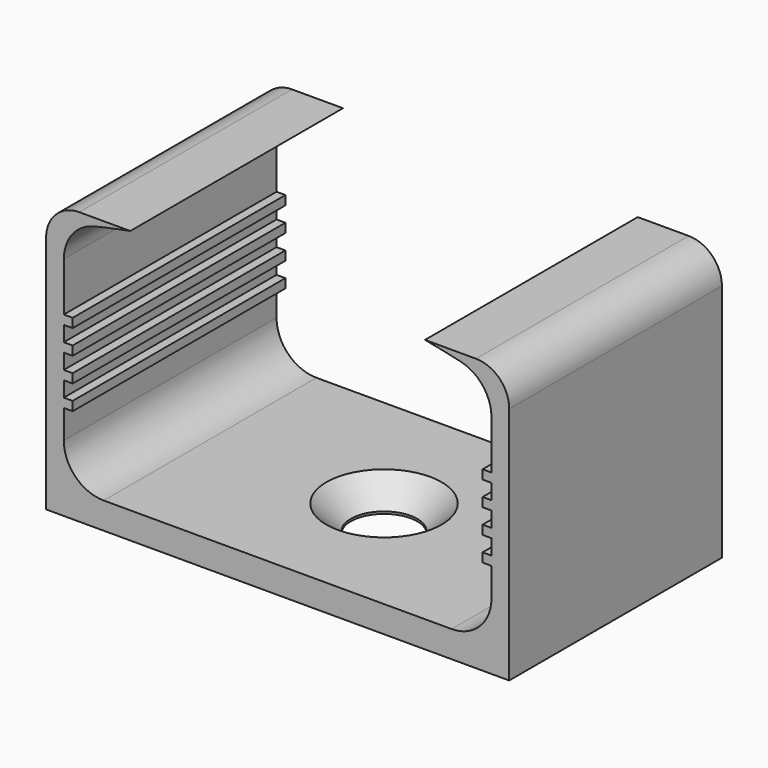
from build123d import *

# Parameters (mm, degrees)
F0_W           = 0.4
F0_H           = 0.41
F1_DEPTH       = 6
F1_DEPTH_BACK  = 6
F3_D           = 3
F3_CSINK_D     = 5.2
F3_CSINK_ANGLE = 90


with BuildPart() as f1:
    # F0 (on Front) → F1 (new body, two sides)
    with BuildSketch(Plane.XZ) as f1_sk:
        with BuildLine():
            Line((7.85, -5.2), (-7.85, -5.2))
            ThreePointArc((-7.85, -5.2), (-9.1227922061, -4.6727922061), (-9.65, -3.4))
            Line((-9.65, -3.4), (-9.65, -2.1072993897))
            Line((-9.65, -2.1072993897), (-10.05, -2.1072993897))
            Line((-10.05, -2.1072993897), (-10.05, -1.6972993897))
            Line((-10.05, -1.6972993897), (-9.65, -1.6972993897))
            Line((-9.65, -1.6972993897), (-9.65, -1.0072993897))
            Line((-9.65, -1.0072993897), (-10.05, -1.0072993897))
            Line((-10.05, -1.0072993897), (-10.05, -0.5972993897))
            Line((-10.05, -0.5972993897), (-9.65, -0.5972993897))
            Line((-9.65, -0.5972993897), (-9.65, 0.0927006103))
            Line((-9.65, 0.0927006103), (-10.05, 0.0927006103))
            Line((-10.05, 0.0927006103), (-10.05, 0.5027006103))
            Line((-10.05, 0.5027006103), (-9.65, 0.5027006103))
            Line((-9.65, 0.5027006103), (-9.65, 1.1927006103))
            Line((-9.65, 1.1927006103), (-10.05, 1.1927006103))
            Line((-10.05, 1.1927006103), (-10.05, 1.6027006103))
            Line((-10.05, 1.6027006103), (-9.65, 1.6027006103))
            Line((-9.65, 1.6027006103), (-9.65, 3.8042472626))
            ThreePointArc((-9.65, 3.8042472626), (-9.2612806979, 4.9215148186), (-8.2630146759, 5.5562229695))
            ThreePointArc((-8.2630146759, 5.5562229695), (-7.4584618673, 5.736194267), (-6.65, 5.8977006103))
            Line((-6.65, 5.8977006103), (-8.95, 5.8977006103))
            ThreePointArc((-8.95, 5.8977006103), (-10.0106601718, 5.4583607821), (-10.45, 4.3977006103))
            Line((-10.45, 4.3977006103), (-10.45, -6.4))
            Line((-10.45, -6.4), (10.45, -6.4))
            Line((10.45, -6.4), (10.45, 4.3977006103))
            ThreePointArc((10.45, 4.3977006103), (10.0106601718, 5.4583607821), (8.95, 5.8977006103))
            Line((8.95, 5.8977006103), (6.65, 5.8977006103))
            ThreePointArc((6.65, 5.8977006103), (7.4584618673, 5.736194267), (8.2630146759, 5.5562229695))
            ThreePointArc((8.2630146759, 5.5562229695), (9.2612806979, 4.9215148186), (9.65, 3.8042472626))
            Line((9.65, 3.8042472626), (9.65, 1.6027006103))
            Line((9.65, 1.6027006103), (10.05, 1.6027006103))
            Line((10.05, 1.6027006103), (10.05, 1.1927006103))
            Line((10.05, 1.1927006103), (9.65, 1.1927006103))
            Line((9.65, 1.1927006103), (9.65, 0.5027006103))
            Line((9.65, 0.5027006103), (10.05, 0.5027006103))
            Line((10.05, 0.5027006103), (10.05, 0.0927006103))
            Line((10.05, 0.0927006103), (9.65, 0.0927006103))
            Line((9.65, 0.0927006103), (9.65, -0.5972993897))
            Line((9.65, -0.5972993897), (10.05, -0.5972993897))
            Line((10.05, -0.5972993897), (10.05, -1.0072993897))
            Line((10.05, -1.0072993897), (9.65, -1.0072993897))
            Line((9.65, -1.0072993897), (9.65, -1.6972993897))
            Line((9.65, -1.6972993897), (10.05, -1.6972993897))
            Line((10.05, -1.6972993897), (10.05, -2.1072993897))
            Line((10.05, -2.1072993897), (9.65, -2.1072993897))
            Line((9.65, -2.1072993897), (9.65, -3.4))
            ThreePointArc((9.65, -3.4), (9.1227922061, -4.6727922061), (7.85, -5.2))
        make_face()
        with Locations((-9.85, -1.9022993897)):
            Rectangle(F0_W, F0_H)
        with Locations((-9.45, -1.9022993897)):
            Rectangle(F0_W, F0_H)
        with Locations((9.45, -1.9022993897)):
            Rectangle(F0_W, F0_H)
        with Locations((9.85, -1.9022993897)):
            Rectangle(F0_W, F0_H)
        with Locations((-9.85, -0.8022993897)):
            Rectangle(F0_W, F0_H)
        with Locations((-9.45, -0.8022993897)):
            Rectangle(F0_W, F0_H)
        with Locations((9.45, -0.8022993897)):
            Rectangle(F0_W, F0_H)
        with Locations((9.85, -0.8022993897)):
            Rectangle(F0_W, F0_H)
        with Locations((-9.85, 0.2977006103)):
            Rectangle(F0_W, F0_H)
        with Locations((-9.45, 0.2977006103)):
            Rectangle(F0_W, F0_H)
        with Locations((9.45, 0.2977006103)):
            Rectangle(F0_W, F0_H)
        with Locations((9.85, 0.2977006103)):
            Rectangle(F0_W, F0_H)
        with Locations((-9.85, 1.3977006103)):
            Rectangle(F0_W, F0_H)
        with Locations((-9.45, 1.3977006103)):
            Rectangle(F0_W, F0_H)
        with Locations((9.45, 1.3977006103)):
            Rectangle(F0_W, F0_H)
        with Locations((9.85, 1.3977006103)):
            Rectangle(F0_W, F0_H)
    extrude(amount=F1_DEPTH)
    extrude(f1_sk.sketch, amount=-F1_DEPTH_BACK)

    # F3 (through all)
    with Locations(Plane.XY.offset(-5.2)):
        with Locations((0, 0)):
            CounterSinkHole(F3_D / 2, F3_CSINK_D / 2, counter_sink_angle=F3_CSINK_ANGLE)


solid = f1.part
